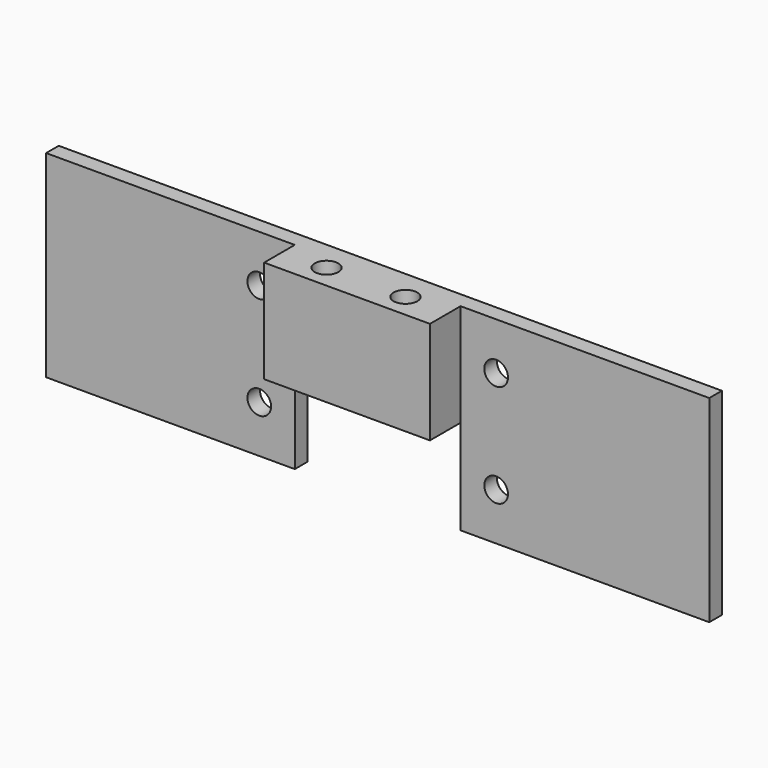
from build123d import *

# Parameters (mm, degrees)
SKETCH_R     = 1.5
PAD_DEPTH    = 2
SKETCH001_W  = 21
SKETCH001_H  = 13
PAD001_DEPTH = 4.85
SKETCH002_R  = 1.5
POCKET_DEPTH = 21


with BuildPart() as part:
    # Sketch → Pad (new body)
    with BuildSketch(Plane.XZ):
        Polygon((-42, 12.5), (42, 12.5), (42, -12.5), (10.5, -12.5), (10.5, -0.5), (-10.5, -0.5), (-10.5, -12.5), (-42, -12.5), align=None)
        with Locations((-15, 6.5)):
            Circle(SKETCH_R, mode=Mode.SUBTRACT)
        with Locations((-15, -6.5)):
            Circle(SKETCH_R, mode=Mode.SUBTRACT)
        with Locations((15, -6.5)):
            Circle(SKETCH_R, mode=Mode.SUBTRACT)
        with Locations((15, 6.5)):
            Circle(SKETCH_R, mode=Mode.SUBTRACT)
    extrude(amount=PAD_DEPTH)

    # Sketch001 (on Face14 of Pad) → Pad001 (join)
    with BuildSketch(Plane.XZ.offset(2)):
        with Locations((0, 6)):
            Rectangle(SKETCH001_W, SKETCH001_H)
    extrude(amount=PAD001_DEPTH)

    # Sketch002 (on Face6 of Pad001) → Pocket (cut)
    with BuildSketch(Plane(origin=(0, 0, 12.5), x_dir=(-1, 0, 0), z_dir=(0, 0, 1))):
        with Locations((-5, 3.85)):
            Circle(SKETCH002_R)
        with Locations((5, 3.85)):
            Circle(SKETCH002_R)
    extrude(amount=-POCKET_DEPTH, mode=Mode.SUBTRACT)


solid = part.part
